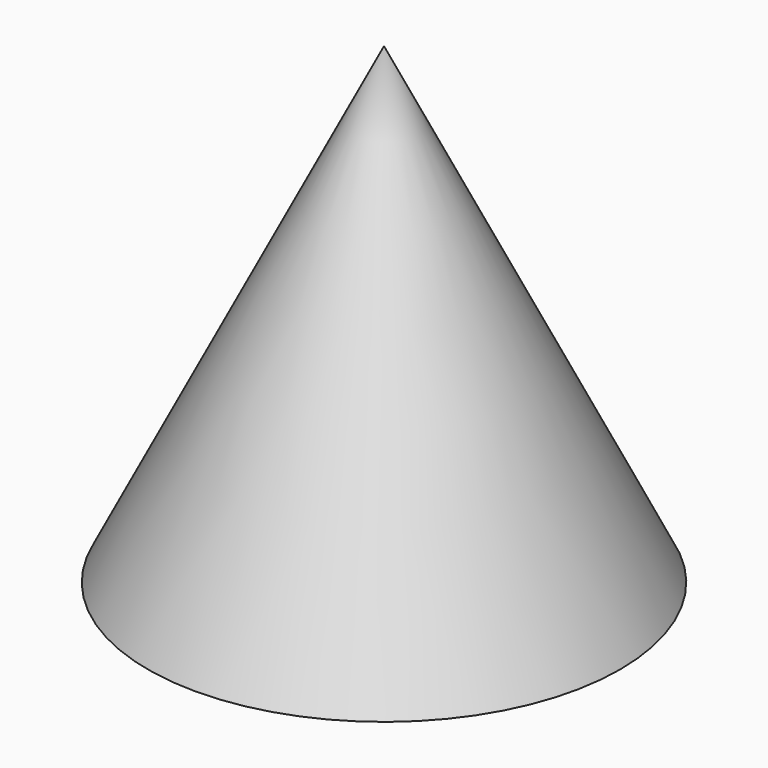
from build123d import *

# Parameters (mm, degrees)
F0_R = 12.7


with BuildPart() as f3:
    # F0 (on Top) → F3 section 0
    with BuildSketch(Plane.XY, mode=Mode.PRIVATE) as f3_s0:
        Circle(F0_R)
    loft([f3_s0.sketch, Vertex(0, 0, 25.4)])


solid = f3.part
